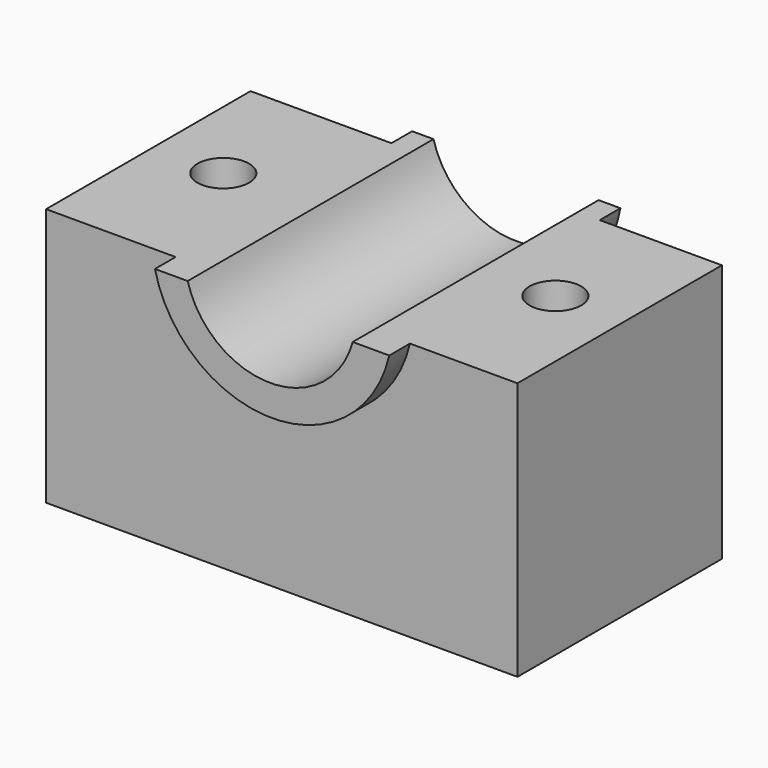
from build123d import *

# Parameters (mm, degrees)
F0_W     = 92.643157
F0_H     = 50.231842
F1_DEPTH = 50.8
F3_DEPTH = 91.948
F4_DEPTH = 5.08
F6_DEPTH = 5.08
F9_D     = 10.16


with BuildPart() as f1:
    # F0 (on Top) → F1 (new body)
    with BuildSketch(Plane.XY):
        with Locations((0.451185, -1.203158)):
            Rectangle(F0_W, F0_H)
    extrude(amount=F1_DEPTH)

    # F2 (on face) → F3 (cut)
    with BuildSketch(Plane.XZ.offset(26.319079)):
        with BuildLine():
            Line((18.460125, 50.8), (-13.976645, 50.8))
            ThreePointArc((-13.976645, 50.8), (2.24174, 38.437578), (18.460125, 50.8))
        make_face()
    extrude(amount=-F3_DEPTH, mode=Mode.SUBTRACT)

    # F2 (on face) → F4 (join)
    with BuildSketch(Plane.XZ.offset(26.319079)):
        with BuildLine():
            ThreePointArc((18.460125, 50.8), (2.24174, 38.437578), (-13.976645, 50.8))
            Line((-13.976645, 50.8), (-20.409722, 50.8))
            ThreePointArc((-20.409722, 50.8), (2.616898, 32.474383), (25.643518, 50.8))
            Line((25.643518, 50.8), (18.460125, 50.8))
        make_face()
    extrude(amount=F4_DEPTH)

    # F5 (on face) → F6 (join)
    with BuildSketch(Plane(origin=(0, 23.912763, 0), x_dir=(-1, 0, 0), z_dir=(0, 1, 0))):
        with BuildLine():
            Line((-18.460125, 50.8), (-22.761472, 50.8))
            ThreePointArc((-22.761472, 50.8), (-2.292335, 33.518654), (18.176802, 50.8))
            Line((18.176802, 50.8), (13.976645, 50.8))
            ThreePointArc((13.976645, 50.8), (-2.24174, 38.437578), (-18.460125, 50.8))
        make_face()
    extrude(amount=F6_DEPTH)

    # F9 (through all)
    with Locations(Plane.XY.offset(50.8)):
        with Locations((-32.094348, 0), (33.174038, 0)):
            Hole(F9_D / 2)


solid = f1.part
